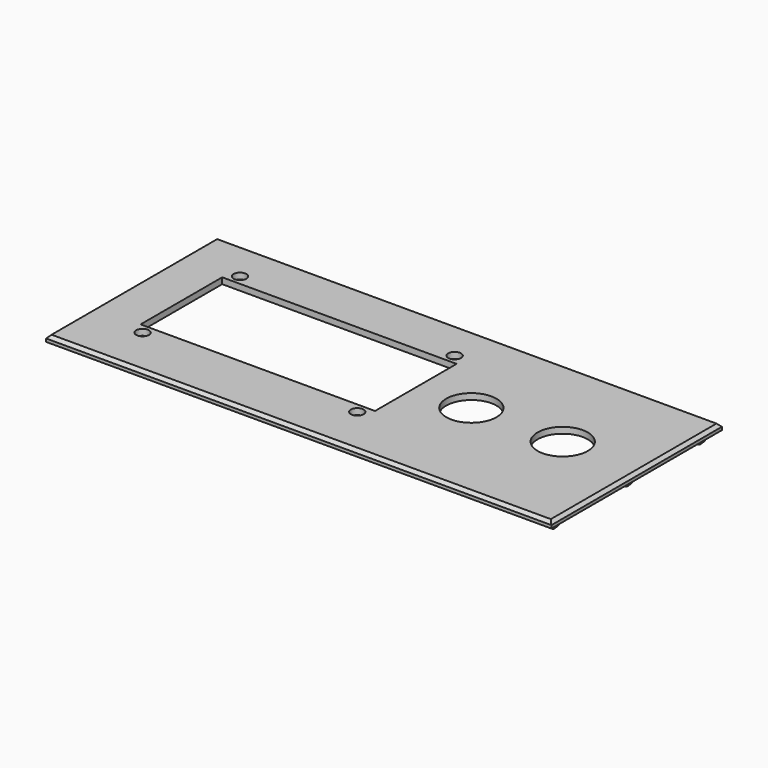
from build123d import *

# Parameters (mm, degrees)
F0_W     = 166
F0_H     = 70
F1_DEPTH = 2
F2_W     = 77
F2_H     = 33.5
F2_R     = 2.1
F2_R_2   = 8.25
F3_DEPTH = 2
F4_R     = 1.5
F5_DEPTH = 3
F6_SIZE  = 1
F7_SIZE  = 1


with BuildPart() as f1:
    # F0 (on Top) → F1 (new body)
    with BuildSketch(Plane.XY):
        Rectangle(F0_W, F0_H)
    extrude(amount=F1_DEPTH)

    # F2 (on face) → F3 (cut, through all)
    with BuildSketch(Plane.XY.offset(2)):
        with Locations((-29.25, 1.5)):
            Rectangle(F2_W, F2_H)
        with Locations((-64.5, 21.5)):
            Circle(F2_R)
        with Locations((6, 21.5)):
            Circle(F2_R)
        with Locations((6, -18.5)):
            Circle(F2_R)
        with Locations((-64.5, -18.5)):
            Circle(F2_R)
        with Locations((27.5, 1.5)):
            Circle(F2_R_2)
        with Locations((57.5, 1.5)):
            Circle(F2_R_2)
    extrude(amount=-F3_DEPTH, mode=Mode.SUBTRACT)

    # F4 (on face) → F5 (join)
    with BuildSketch(Plane(origin=(0, 0, 0), x_dir=(1, 0, 0), z_dir=(0, 0, -1))):
        with Locations((-79.5, 30)):
            Circle(F4_R)
        with Locations((-79.5, -30)):
            Circle(F4_R)
        with Locations((-79.5, 0)):
            Circle(F4_R)
        with Locations((79.5, -30)):
            Circle(F4_R)
        with Locations((79.5, 30)):
            Circle(F4_R)
        with Locations((79.5, 0)):
            Circle(F4_R)
    extrude(amount=F5_DEPTH)

    # F6
    f6_edges = [f1.edges().sort_by_distance(p)[0] for p in [
        (-81, -30, -3),
        (-81, 0, -3),
        (-81, 30, -3),
        (78, 30, -3),
        (78, 0, -3),
        (78, -30, -3),
    ]]
    chamfer(f6_edges, length=F6_SIZE)

    # F7
    f7_edges = [f1.edges().sort_by_distance(p)[0] for p in [
        (83, 0, 2),
        (0, -35, 2),
        (-83, 0, 2),
        (0, 35, 2),
    ]]
    chamfer(f7_edges, length=F7_SIZE)


solid = f1.part
